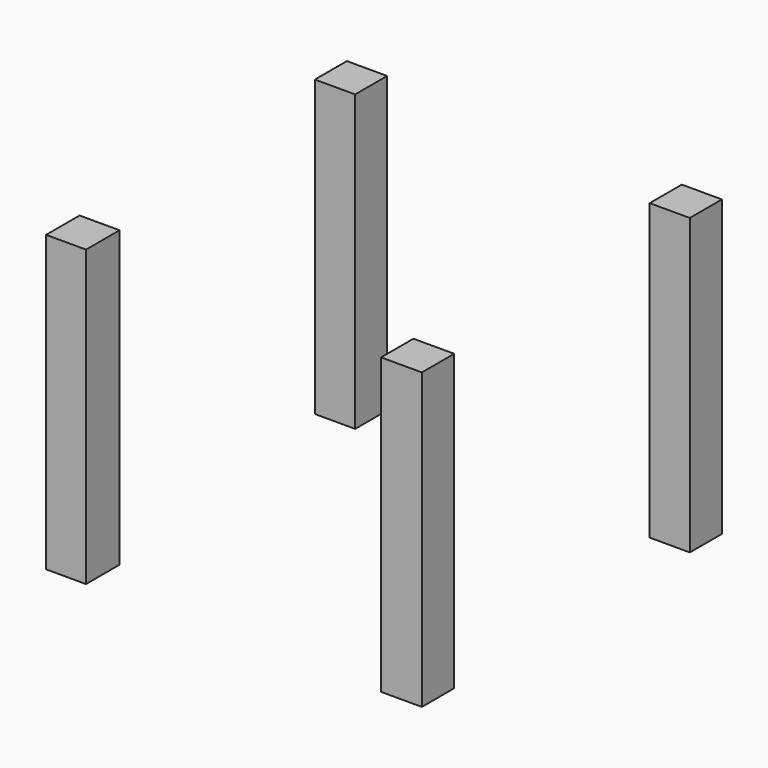
from build123d import *

# Parameters (mm, degrees)
F0_W          = 20.832829
F0_H          = 20.70263
F0_W_2        = 21.104806
F0_H_2        = 20.919338
F0_W_3        = 20.670086
F0_H_3        = 21.67558
F0_W_4        = 20.761833
F0_H_4        = 20.770893
F1_DEPTH      = 127
F1_DEPTH_BACK = 25.4


with BuildPart() as f1:
    # F0 (on Top) → F1 (new body, two sides)
    with BuildSketch(Plane.XY) as f1_sk:
        with Locations((-86.521003, 86.520851)):
            Rectangle(F0_W, F0_H)
        with Locations((86.391192, -86.526819)):
            Rectangle(F0_W_2, F0_H_2)
        with Locations((-86.521003, 86.520851)):
            Rectangle(F0_W, F0_H)
        with Locations((-86.533248, -86.981263)):
            Rectangle(F0_W_3, F0_H_3)
        with Locations((86.65885, 86.611777)):
            Rectangle(F0_W_4, F0_H_4)
    extrude(amount=F1_DEPTH)
    extrude(f1_sk.sketch, amount=-F1_DEPTH_BACK)


solid = f1.part
